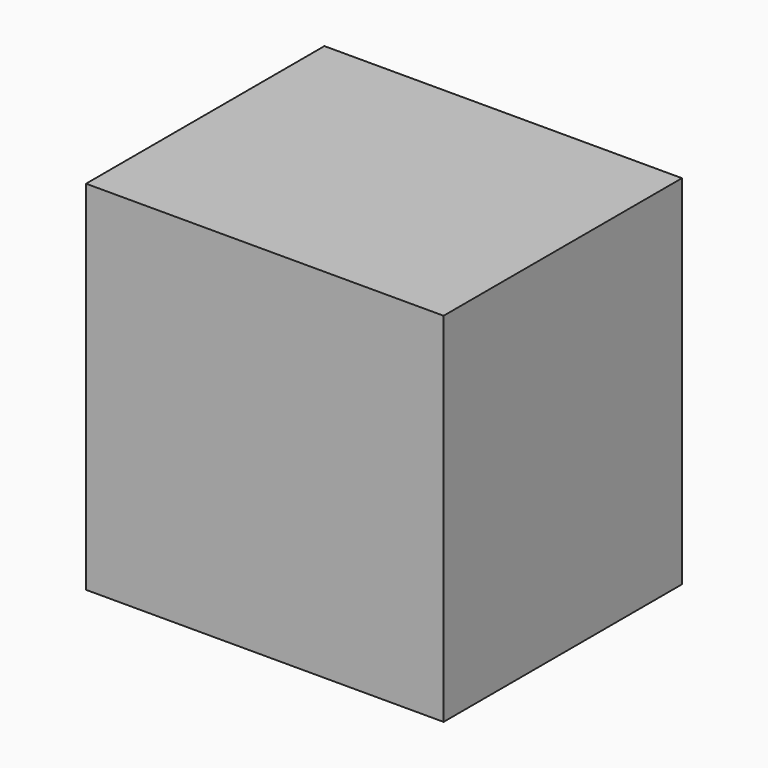
from build123d import *

# Parameters (mm, degrees)
F0_W     = 30
F0_H     = 30
F1_DEPTH = 25
F2_DEPTH = 25


with BuildPart() as f1:
    # F0 (on Front) → F1 (new body)
    with BuildSketch(Plane.XZ):
        Rectangle(F0_W, F0_H)
    extrude(amount=F1_DEPTH)

    # F0 (on Front) → F2 (join)
    with BuildSketch(Plane.XZ):
        Rectangle(F0_W, F0_H)
    extrude(amount=F2_DEPTH)


solid = f1.part
